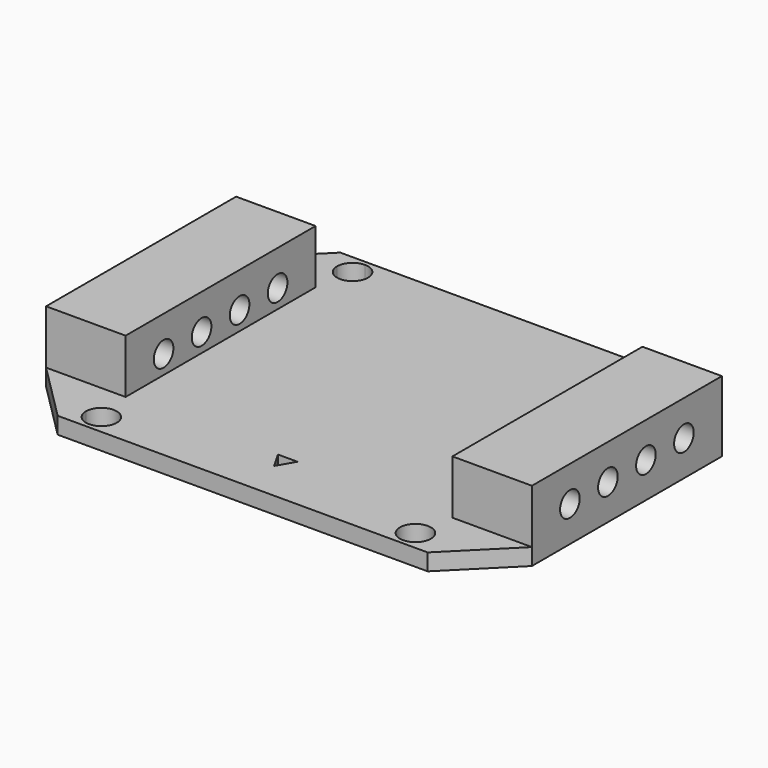
from build123d import *

# Parameters (mm, degrees)
F1_DEPTH = 1.7
F2_W     = 8.1
F2_H     = 24.2000000085
F3_DEPTH = 5.5
F6_DEPTH = 8.1
F7_DEPTH = 8.1


with BuildPart() as f1:
    # F0 (on Top) → F1 (new body)
    with BuildSketch(Plane.XY):
        with BuildLine():
            ThreePointArc((-17.5750000042, 16), (-17.1136931846, 17.1136931804), (-16.0000000042, 17.575))
            Line((-16.0000000042, 17.575), (-16.0000000042, 18))
            Line((-16.0000000042, 18), (-18.8500000085, 18))
            Line((-18.8500000085, 18), (-20.8500000085, 16))
            Line((-20.8500000085, 16), (-17.5750000042, 16))
        make_face()
        with BuildLine():
            ThreePointArc((-16.0000000042, 17.575), (-14.8863068239, 17.1136931804), (-14.4250000042, 16))
            ThreePointArc((-14.4250000042, 16), (-16.0000000042, 14.425), (-17.5750000042, 16))
            Line((-17.5750000042, 16), (-20.8500000085, 16))
            Line((-20.8500000085, 16), (-24.75, 12.1000000085))
            Line((-24.75, 12.1000000085), (-24.75, -12.1))
            Line((-24.75, -12.1), (-20.85, -16))
            Line((-20.85, -16), (-17.5749999958, -16))
            ThreePointArc((-17.5749999958, -16), (-15.9999999958, -14.425), (-14.4249999958, -16))
            ThreePointArc((-14.4249999958, -16), (-14.8863068154, -17.1136931804), (-15.9999999958, -17.575))
            Line((-15.9999999958, -17.575), (-15.9999999958, -18))
            Line((-15.9999999958, -18), (16.0000000042, -18))
            Line((16.0000000042, -18), (16.0000000042, -17.575))
            ThreePointArc((16.0000000042, -17.575), (14.8863068239, -14.8863068196), (17.5750000042, -16))
            Line((17.5750000042, -16), (20.8500000085, -16))
            Line((20.8500000085, -16), (24.75, -12.1000000085))
            Line((24.75, -12.1000000085), (24.75, 12.1))
            Line((24.75, 12.1), (20.85, 16))
            Line((20.85, 16), (17.5749999958, 16))
            ThreePointArc((17.5749999958, 16), (14.8863068154, 14.8863068196), (15.9999999958, 17.575))
            Line((15.9999999958, 17.575), (15.9999999958, 18))
            Line((15.9999999958, 18), (-16.0000000042, 18))
            Line((-16.0000000042, 18), (-16.0000000042, 17.575))
        make_face()
        Polygon((1, -12.2679491924), (0, -14), (-1, -12.2679491924), align=None, mode=Mode.SUBTRACT)
        with BuildLine():
            ThreePointArc((-16.0000000042, 17.575), (-14.8863068239, 17.1136931804), (-14.4250000042, 16))
            ThreePointArc((-14.4250000042, 16), (-16.0000000042, 14.425), (-17.5750000042, 16))
            Line((-17.5750000042, 16), (-20.8500000085, 16))
            Line((-20.8500000085, 16), (-24.75, 12.1000000085))
            Line((-24.75, 12.1000000085), (-24.75, -12.1))
            Line((-24.75, -12.1), (-20.85, -16))
            Line((-20.85, -16), (-17.5749999958, -16))
            ThreePointArc((-17.5749999958, -16), (-15.9999999958, -14.425), (-14.4249999958, -16))
            ThreePointArc((-14.4249999958, -16), (-14.8863068154, -17.1136931804), (-15.9999999958, -17.575))
            Line((-15.9999999958, -17.575), (-15.9999999958, -18))
            Line((-15.9999999958, -18), (16.0000000042, -18))
            Line((16.0000000042, -18), (16.0000000042, -17.575))
            ThreePointArc((16.0000000042, -17.575), (14.8863068239, -14.8863068196), (17.5750000042, -16))
            Line((17.5750000042, -16), (20.8500000085, -16))
            Line((20.8500000085, -16), (24.75, -12.1000000085))
            Line((24.75, -12.1000000085), (24.75, 12.1))
            Line((24.75, 12.1), (20.85, 16))
            Line((20.85, 16), (17.5749999958, 16))
            ThreePointArc((17.5749999958, 16), (14.8863068154, 14.8863068196), (15.9999999958, 17.575))
            Line((15.9999999958, 17.575), (15.9999999958, 18))
            Line((15.9999999958, 18), (-16.0000000042, 18))
            Line((-16.0000000042, 18), (-16.0000000042, 17.575))
        make_face()
        Polygon((1, -12.2679491924), (0, -14), (-1, -12.2679491924), align=None, mode=Mode.SUBTRACT)
        with BuildLine():
            Line((18.85, 18), (15.9999999958, 18))
            Line((15.9999999958, 18), (15.9999999958, 17.575))
            ThreePointArc((15.9999999958, 17.575), (17.1136931761, 17.1136931804), (17.5749999958, 16))
            Line((17.5749999958, 16), (20.85, 16))
            Line((20.85, 16), (18.85, 18))
        make_face()
        with BuildLine():
            Line((18.8500000085, -18), (20.8500000085, -16))
            Line((20.8500000085, -16), (17.5750000042, -16))
            ThreePointArc((17.5750000042, -16), (17.1136931846, -17.1136931804), (16.0000000042, -17.575))
            Line((16.0000000042, -17.575), (16.0000000042, -18))
            Line((16.0000000042, -18), (18.8500000085, -18))
        make_face()
        with BuildLine():
            Line((-17.5749999958, -16), (-20.85, -16))
            Line((-20.85, -16), (-18.85, -18))
            Line((-18.85, -18), (-15.9999999958, -18))
            Line((-15.9999999958, -18), (-15.9999999958, -17.575))
            ThreePointArc((-15.9999999958, -17.575), (-17.1136931761, -17.1136931804), (-17.5749999958, -16))
        make_face()
    extrude(amount=F1_DEPTH)

    # F2 (on face) → F3 (join)
    with BuildSketch(Plane.XY.offset(1.7)):
        with Locations((-20.7, 4.2e-09)):
            Rectangle(F2_W, F2_H)
        with Locations((20.7, -4.2e-09)):
            Rectangle(F2_W, F2_H)
    extrude(amount=F3_DEPTH)

    # F5 (on face) → F6 (cut)
    with BuildSketch(Plane.YZ.offset(24.75)):
        with BuildLine():
            Line((6.0099999915, 3.6), (8.5099999915, 3.6))
            ThreePointArc((8.5099999915, 3.6), (7.2599999915, 4.85), (6.0099999915, 3.6))
        make_face()
        with BuildLine():
            ThreePointArc((6.0099999915, 3.6), (7.2599999915, 2.35), (8.5099999915, 3.6))
            Line((8.5099999915, 3.6), (6.0099999915, 3.6))
        make_face()
        with BuildLine():
            ThreePointArc((1.1699999915, 3.6), (2.4199999915, 2.35), (3.6699999915, 3.6))
            Line((3.6699999915, 3.6), (1.1699999915, 3.6))
        make_face()
        with BuildLine():
            Line((1.1699999915, 3.6), (3.6699999915, 3.6))
            ThreePointArc((3.6699999915, 3.6), (2.4199999915, 4.85), (1.1699999915, 3.6))
        make_face()
        with BuildLine():
            ThreePointArc((-3.6700000085, 3.6), (-2.4200000085, 2.35), (-1.1700000085, 3.6))
            Line((-1.1700000085, 3.6), (-3.6700000085, 3.6))
        make_face()
        with BuildLine():
            Line((-3.6700000085, 3.6), (-1.1700000085, 3.6))
            ThreePointArc((-1.1700000085, 3.6), (-2.4200000085, 4.85), (-3.6700000085, 3.6))
        make_face()
        with BuildLine():
            Line((-6.0100000085, 3.6), (-8.5100000085, 3.6))
            ThreePointArc((-8.5100000085, 3.6), (-7.2600000085, 2.35), (-6.0100000085, 3.6))
        make_face()
        with BuildLine():
            ThreePointArc((-6.0100000085, 3.6), (-7.2600000085, 4.85), (-8.5100000085, 3.6))
            Line((-8.5100000085, 3.6), (-6.0100000085, 3.6))
        make_face()
    extrude(amount=-F6_DEPTH, mode=Mode.SUBTRACT)

    # F4 (on face) → F7 (cut)
    with BuildSketch(Plane(origin=(-24.75, 0, 0), x_dir=(0, -1, 0), z_dir=(-1, 0, 0))):
        with BuildLine():
            Line((6.0099999915, 3.6), (8.5099999915, 3.6))
            ThreePointArc((8.5099999915, 3.6), (7.2599999915, 4.85), (6.0099999915, 3.6))
        make_face()
        with BuildLine():
            ThreePointArc((6.0099999915, 3.6), (7.2599999915, 2.35), (8.5099999915, 3.6))
            Line((8.5099999915, 3.6), (6.0099999915, 3.6))
        make_face()
        with BuildLine():
            Line((1.1699999915, 3.6), (3.6699999915, 3.6))
            ThreePointArc((3.6699999915, 3.6), (2.4199999915, 4.85), (1.1699999915, 3.6))
        make_face()
        with BuildLine():
            ThreePointArc((1.1699999915, 3.6), (2.4199999915, 2.35), (3.6699999915, 3.6))
            Line((3.6699999915, 3.6), (1.1699999915, 3.6))
        make_face()
        with BuildLine():
            Line((-3.6700000085, 3.6), (-1.1700000085, 3.6))
            ThreePointArc((-1.1700000085, 3.6), (-2.4200000085, 4.85), (-3.6700000085, 3.6))
        make_face()
        with BuildLine():
            ThreePointArc((-3.6700000085, 3.6), (-2.4200000085, 2.35), (-1.1700000085, 3.6))
            Line((-1.1700000085, 3.6), (-3.6700000085, 3.6))
        make_face()
        with BuildLine():
            ThreePointArc((-6.0100000085, 3.6), (-7.2600000085, 4.85), (-8.5100000085, 3.6))
            Line((-8.5100000085, 3.6), (-6.0100000085, 3.6))
        make_face()
        with BuildLine():
            Line((-6.0100000085, 3.6), (-8.5100000085, 3.6))
            ThreePointArc((-8.5100000085, 3.6), (-7.2600000085, 2.35), (-6.0100000085, 3.6))
        make_face()
    extrude(amount=-F7_DEPTH, mode=Mode.SUBTRACT)


solid = f1.part
